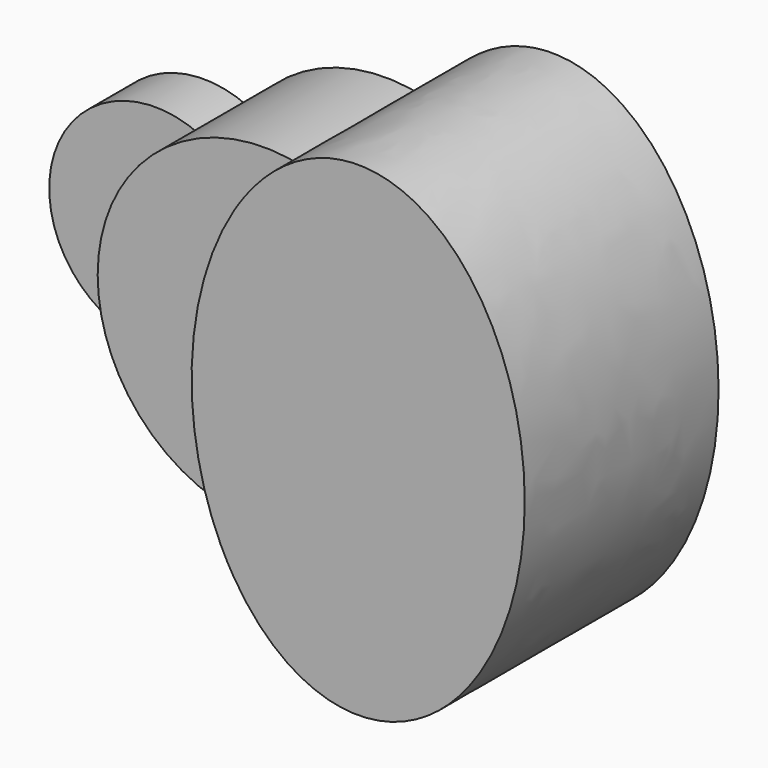
from build123d import *

# Parameters (mm, degrees)
F1_DEPTH = 25.4
F2_DEPTH = 63.5
F3_DEPTH = 101.6


with BuildPart() as f1:
    # F0 (on Front) → F1 (new body)
    with BuildSketch(Plane.XZ):
        with BuildLine():
            ThreePointArc((-57.15, -40.1609262841), (-66.5993618588, -21.0605674188), (-69.85, 0))
            ThreePointArc((-69.85, 0), (-66.5993618588, 21.0605674188), (-57.15, 40.1609262841))
            ThreePointArc((-57.15, 40.1609262841), (-120.65, 0), (-57.15, -40.1609262841))
        make_face()
    extrude(amount=F1_DEPTH)

    # F0 (on Front) → F2 (join)
    with BuildSketch(Plane.XZ):
        with BuildLine():
            ThreePointArc((-57.15, 40.1609262841), (-66.5993618588, 21.0605674188), (-69.85, 0))
            Line((-69.85, 0), (-31.75, 0))
            ThreePointArc((-31.75, 0), (-38.6328933773, 23.759524406), (-57.15, 40.1609262841))
        make_face()
        with BuildLine():
            Line((-31.75, 0), (-69.85, 0))
            ThreePointArc((-69.85, 0), (-66.5993618588, -21.0605674188), (-57.15, -40.1609262841))
            ThreePointArc((-57.15, -40.1609262841), (-38.6328933773, -23.759524406), (-31.75, 0))
        make_face()
        with BuildLine():
            Line((0, 0), (-31.75, 0))
            ThreePointArc((-31.75, 0), (-38.6328933773, -23.759524406), (-57.15, -40.1609262841))
            ThreePointArc((-57.15, -40.1609262841), (-24.0241172905, -65.5885987685), (17.6886151651, -67.5731854624))
            add(Edge.make_bspline(
                [(0, 0), (0, -38.6848080688), (17.6886151651, -67.5731854624)],
                knots=[1.5707963268, 1.5707963268, 1.5707963268, 2.2984112049, 2.2984112049, 2.2984112049], degree=2, weights=[1, 0.9345487806, 1]))
        make_face()
        with BuildLine():
            ThreePointArc((-57.15, 40.1609262841), (-38.6328933773, 23.759524406), (-31.75, 0))
            Line((-31.75, 0), (0, 0))
            add(Edge.make_bspline(
                [(17.6886151651, 67.5731854624), (0, 38.6848080688), (0, 0)],
                knots=[0.8431814486, 0.8431814486, 0.8431814486, 1.5707963268, 1.5707963268, 1.5707963268], degree=2, weights=[1, 0.9345487806, 1]))
            ThreePointArc((17.6886151651, 67.5731854624), (-24.0241172905, 65.5885987685), (-57.15, 40.1609262841))
        make_face()
    extrude(amount=F2_DEPTH)

    # F0 (on Front) → F3 (join)
    with BuildSketch(Plane.XZ):
        with BuildLine():
            add(Edge.make_bspline(
                [(17.6886151651, 67.5731854624), (0, 38.6848080688), (0, 0)],
                knots=[0.8431814486, 0.8431814486, 0.8431814486, 1.5707963268, 1.5707963268, 1.5707963268], degree=2, weights=[1, 0.9345487806, 1]))
            add(Edge.make_bspline(
                [(0, 0), (0, -38.6848080688), (17.6886151651, -67.5731854624)],
                knots=[1.5707963268, 1.5707963268, 1.5707963268, 2.2984112049, 2.2984112049, 2.2984112049], degree=2, weights=[1, 0.9345487806, 1]))
            ThreePointArc((17.6886151651, -67.5731854624), (55.2927313002, -42.6818036798), (69.85, 0))
            ThreePointArc((69.85, 0), (55.2927313002, 42.6818036798), (17.6886151651, 67.5731854624))
        make_face()
        with BuildLine():
            add(Edge.make_bspline(
                [(69.85, 101.6), (38.5235419402, 101.6), (17.6886151651, 67.5731854624)],
                knots=[0, 0, 0, 0.8431814486, 0.8431814486, 0.8431814486], degree=2, weights=[1, 0.9124391509, 1]))
            ThreePointArc((17.6886151651, 67.5731854624), (55.2927313002, 42.6818036798), (69.85, 0))
            Line((69.85, 0), (69.85, 101.6))
        make_face()
        with BuildLine():
            ThreePointArc((69.85, 0), (55.2927313002, -42.6818036798), (17.6886151651, -67.5731854624))
            add(Edge.make_bspline(
                [(17.6886151651, -67.5731854624), (89.4382412502, -184.7519615766), (133.5838746885, -41.5759807883), (177.7295081268, 101.6), (69.85, 101.6)],
                knots=[2.2984112049, 2.2984112049, 2.2984112049, 4.2907982561, 4.2907982561, 6.2831853072, 6.2831853072, 6.2831853072], degree=2, weights=[1, 0.5435014216, 1, 0.5435014216, 1]))
            Line((69.85, 101.6), (69.85, 0))
        make_face()
    extrude(amount=F3_DEPTH)


solid = f1.part
